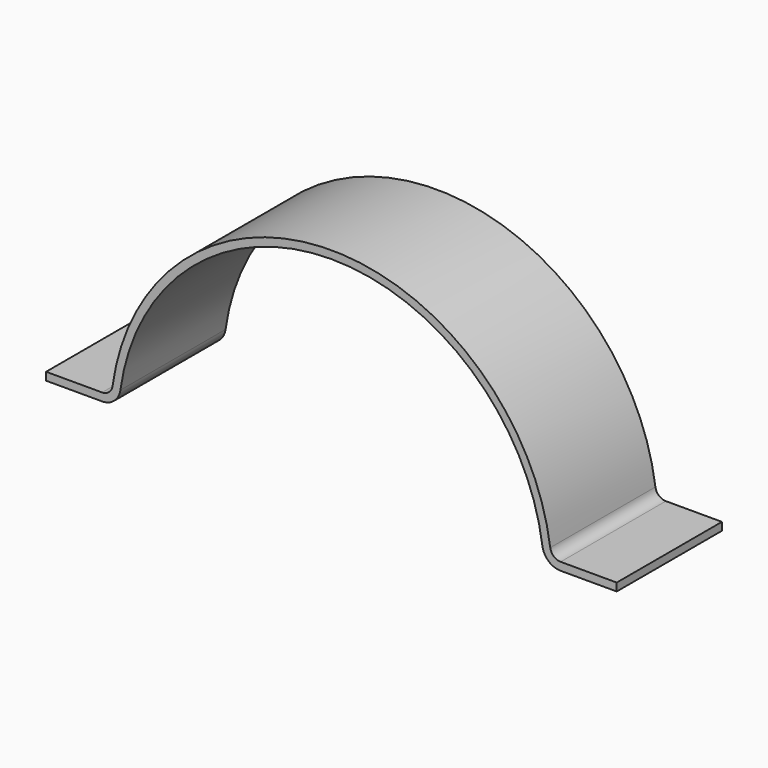
from build123d import *

# Parameters (mm, degrees)
F1_DEPTH = 100


with BuildPart() as f1:
    # F0 (on Front) → F1 (new body)
    with BuildSketch(Plane.XZ):
        with BuildLine():
            ThreePointArc((-146.068349, 5.22981), (14.418385, 145.138901), (174.905118, 5.22981))
            ThreePointArc((174.905118, 5.22981), (179.57454, -3.413996), (188.774342, -6.861099))
            Line((188.774342, -6.861099), (231.418385, -6.861099))
            Line((231.418385, -6.861099), (231.418385, -0.861099))
            Line((231.418385, -0.861099), (188.774342, -0.861099))
            ThreePointArc((188.774342, -0.861099), (183.517312, 1.108674), (180.849072, 6.047992))
            ThreePointArc((180.849072, 6.047992), (14.418385, 151.138901), (-152.012302, 6.047992))
            ThreePointArc((-152.012302, 6.047992), (-154.680543, 1.108674), (-159.937573, -0.861099))
            Line((-159.937573, -0.861099), (-202.581615, -0.861099))
            Line((-202.581615, -0.861099), (-202.581615, -6.861099))
            Line((-202.581615, -6.861099), (-159.937573, -6.861099))
            ThreePointArc((-159.937573, -6.861099), (-150.737771, -3.413996), (-146.068349, 5.22981))
        make_face()
    extrude(amount=-F1_DEPTH)


solid = f1.part
